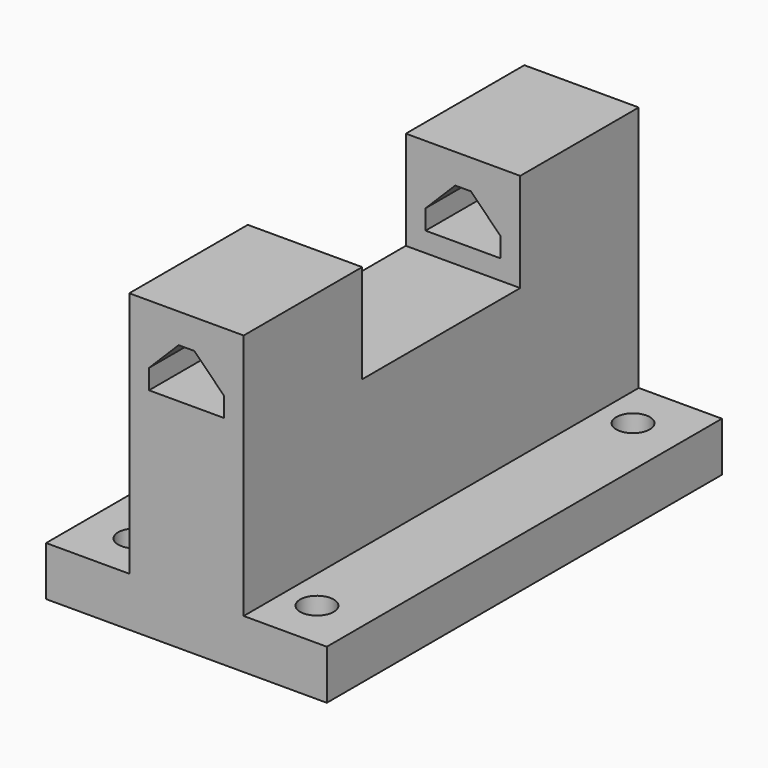
from build123d import *

# Parameters (mm, degrees)
F0_R     = 1.7
F1_DEPTH = 5
F2_DEPTH = 30
F3_DEPTH = 20
F4_W     = 7.581357
F4_H     = 5
F5_DEPTH = 50.001
F6_SIZE  = 3


with BuildPart() as f1:
    # F0 (on Top) → F1 (new body)
    with BuildSketch(Plane.XY):
        Polygon((29.865686, -22.586415), (21.444556, -22.586415), (21.444556, -47.586415), (21.444556, -72.586415), (29.865686, -72.586415), (29.865686, -57.586415), (29.865686, -47.586415), (29.865686, -37.586415), align=None)
        with Locations((26.444556, -67.586415)):
            Circle(F0_R, mode=Mode.SUBTRACT)
        with Locations((26.444556, -27.586415)):
            Circle(F0_R, mode=Mode.SUBTRACT)
        Polygon((49.868173, -22.586415), (41.447043, -22.586415), (41.447043, -37.586415), (41.447043, -47.586415), (41.447043, -57.586415), (41.447043, -72.586415), (49.868173, -72.586415), (49.868173, -47.586415), align=None)
        with Locations((44.868173, -67.586415)):
            Circle(F0_R, mode=Mode.SUBTRACT)
        with Locations((44.868173, -27.586415)):
            Circle(F0_R, mode=Mode.SUBTRACT)
    extrude(amount=F1_DEPTH)

    # F0 (on Top) → F2 (join)
    with BuildSketch(Plane.XY):
        Polygon((35.656365, -22.586415), (29.865686, -22.586415), (29.865686, -37.586415), (35.656365, -37.586415), (41.447043, -37.586415), (41.447043, -22.586415), align=None)
        Polygon((29.865686, -57.586415), (29.865686, -72.586415), (35.656365, -72.586415), (41.447043, -72.586415), (41.447043, -57.586415), (35.656365, -57.586415), align=None)
    extrude(amount=F2_DEPTH)

    # F0 (on Top) → F3 (join)
    with BuildSketch(Plane.XY):
        Polygon((35.656365, -37.586415), (29.865686, -37.586415), (29.865686, -47.586415), (29.865686, -57.586415), (35.656365, -57.586415), (41.447043, -57.586415), (41.447043, -47.586415), (41.447043, -37.586415), align=None)
    extrude(amount=F3_DEPTH)

    # F4 (on face) → F5 (cut, through all)
    with BuildSketch(Plane.XZ.offset(72.586415)):
        with Locations((35.656365, 24.5)):
            Rectangle(F4_W, F4_H)
    extrude(amount=-F5_DEPTH, mode=Mode.SUBTRACT)

    # F6
    f6_edges = [f1.edges().sort_by_distance(p)[0] for p in [
        (31.865686, -30.086415, 27),
        (31.865686, -65.086415, 27),
        (39.447043, -30.086415, 27),
        (39.447043, -65.086415, 27),
    ]]
    chamfer(f6_edges, length=F6_SIZE)


solid = f1.part
